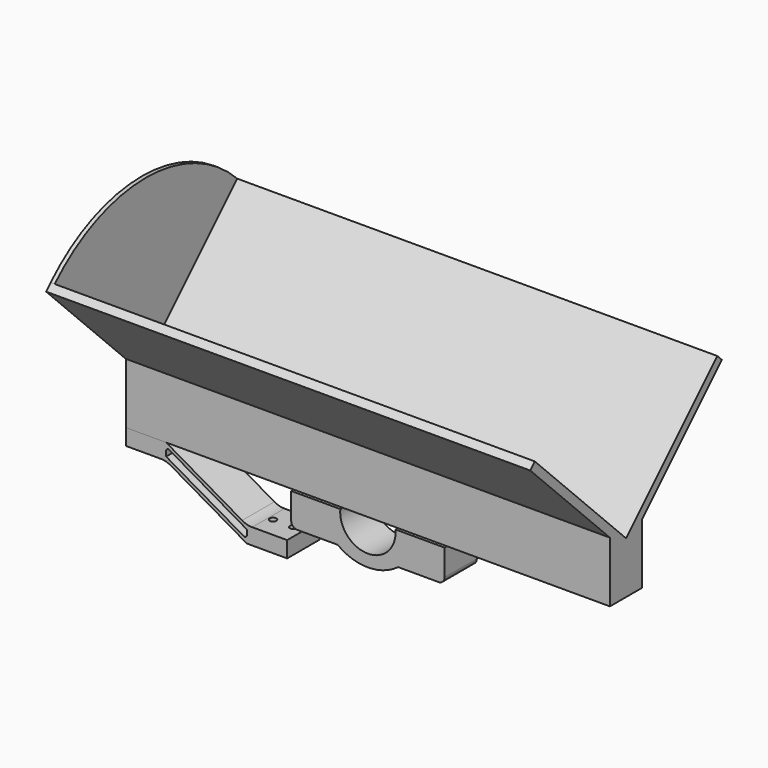
from build123d import *

# Parameters (mm, degrees)
F1_DEPTH        = 120
F1_DEPTH_BACK   = 120
F3_DEPTH        = 10
F3_DEPTH_BACK   = 10
F5_D            = 3.3
F5_DEPTH        = 15.001
F8_D            = 3.3
F8_ON_F6_D      = 3.3
F10_DEPTH       = 2
F12_DEPTH       = 10
F14_D           = 4.5
F14_DEPTH       = 40
F14_CBORE_D     = 8.25
F14_CBORE_DEPTH = 6
F14_TIP         = 1.3519363928
F15_R           = 3


with BuildPart() as f1:
    # F0 (on Right) → F1 (new body, two sides)
    with BuildSketch(Plane.YZ) as f1_sk:
        Polygon((-10, -15), (10, -15), (10, 15), (59.3969696197, 64.3969696197), (56.5685424949, 67.2253967444), (0, 10.6568542495), (-56.5685424949, 67.2253967444), (-59.3969696197, 64.3969696197), (-10, 15), align=None)
    extrude(amount=F1_DEPTH)
    extrude(f1_sk.sketch, amount=-F1_DEPTH_BACK)

    # F5 (through all, one way)
    with BuildSketch(Plane.XY):
        with Locations((-90, 0), (-80, 0), (-70, 0), (-60, 0), (-50, 0), (-40, 0), (-30, 0), (-20, 0), (-10, 0), (10, 0)):
            Circle(F5_D / 2)
    extrude(amount=-F5_DEPTH, mode=Mode.SUBTRACT)

    # F9 (on face) → F10 (join)
    with BuildSketch(Plane(origin=(-120, 0, 0), x_dir=(0, -1, 0), z_dir=(-1, 0, 0))):
        with BuildLine():
            Line((-56.5685424949, 67.2253967444), (-59.3969696197, 64.3969696197))
            Line((-59.3969696197, 64.3969696197), (-10, 15))
            Line((-10, 15), (-10, -15))
            Line((-10, -15), (10, -15))
            Line((10, -15), (10, 15))
            Line((10, 15), (59.3969696197, 64.3969696197))
            Line((59.3969696197, 64.3969696197), (56.5685424949, 67.2253967444))
            ThreePointArc((56.5685424949, 67.2253967444), (0, 90.6568542495), (-56.5685424949, 67.2253967444))
        make_face()
    extrude(amount=-F10_DEPTH)


with BuildPart() as f3:
    # F2 (on Front) → F3 (new body, two sides)
    with BuildSketch(Plane.XZ) as f3_sk:
        with BuildLine():
            Line((-100, -15), (-120, -15))
            Line((-120, -15), (-120, -23))
            Line((-120, -23), (-102.6794919243, -23))
            ThreePointArc((-102.6794919243, -23), (-100.0913014733, -23.3407417371), (-97.6794919243, -24.3397459622))
            Line((-97.6794919243, -24.3397459622), (-60, -46.0940107676))
            Line((-60, -46.0940107676), (-40, -46.0940107676))
            Line((-40, -46.0940107676), (-40, -38.0940107676))
            Line((-40, -38.0940107676), (-57.3205080757, -38.0940107676))
            ThreePointArc((-57.3205080757, -38.0940107676), (-59.9086985267, -37.7532690305), (-62.3205080757, -36.7542648054))
            Line((-62.3205080757, -36.7542648054), (-100, -15))
        make_face()
        with BuildLine():
            Line((-61.5, -43.3804645024), (-100, -21.1524791386))
            Line((-100, -21.1524791386), (-100, -18.579571669))
            ThreePointArc((-100, -18.579571669), (-99.5, -17.7135462652), (-98.5, -17.7135462652))
            Line((-98.5, -17.7135462652), (-60, -39.941531629))
            Line((-60, -39.941531629), (-60, -42.5144390986))
            ThreePointArc((-60, -42.5144390986), (-60.5, -43.3804645024), (-61.5, -43.3804645024))
        make_face(mode=Mode.SUBTRACT)
    extrude(amount=F3_DEPTH)
    extrude(f3_sk.sketch, amount=-F3_DEPTH_BACK)

    # F8 (through all)
    with Locations(Plane(origin=(0, 0, -46.0940107676), x_dir=(1, 0, 0), z_dir=(0, 0, -1))):
        with Locations((-45, 0), (-55, 0)):
            Hole(F8_D / 2)

    # F8 on F6 (through all)
    with Locations(Plane(origin=(0, 0, -23), x_dir=(1, 0, 0), z_dir=(0, 0, -1))):
        with Locations((-105, 0), (-115, 0)):
            Hole(F8_ON_F6_D / 2)


with BuildPart() as f12:
    # F11 (on Front) → F12 (new body, symmetric)
    with BuildSketch(Plane.XZ):
        with BuildLine():
            ThreePointArc((13.6656503687, -16), (0, -31), (-13.6656503687, -16))
            Line((-13.6656503687, -16), (-38, -16))
            Line((-38, -16), (-38, -32))
            Line((-38, -32), (-15, -32))
            ThreePointArc((-15, -32), (0, -37), (15, -32))
            Line((15, -32), (38, -32))
            Line((38, -32), (38, -16))
            Line((38, -16), (13.6656503687, -16))
        make_face()
    extrude(amount=F12_DEPTH, both=True)

    # F14
    with Locations(Plane(origin=(0, 0, -32), x_dir=(1, 0, 0), z_dir=(0, 0, -1))):
        with Locations((-30, 0), (-20, 0), (20, 0), (30, 0)):
            CounterBoreHole(F14_D / 2, F14_CBORE_D / 2, F14_CBORE_DEPTH, depth=F14_DEPTH)
            with Locations((0, 0, -(F14_DEPTH + F14_TIP / 2))):  # 118° drill point
                Cone(0, F14_D / 2, F14_TIP, mode=Mode.SUBTRACT)

    # F15
    f15_edges = [f12.edges().sort_by_distance(p)[0] for p in [
        (-38, 0, -32),
        (38, 0, -32),
    ]]
    fillet(f15_edges, radius=F15_R)


solid = Compound([f1.part, f3.part, f12.part])
